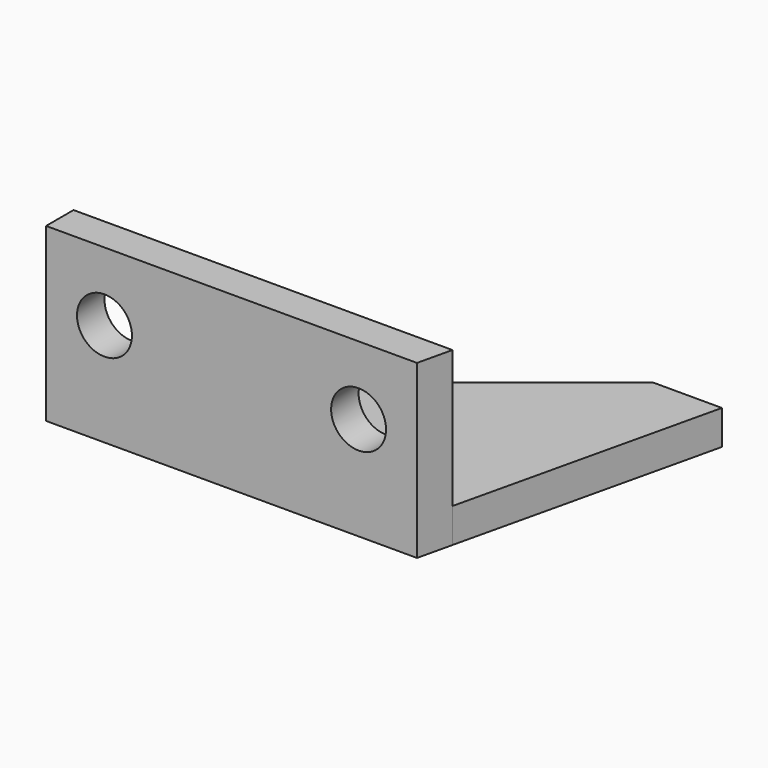
from build123d import *

# Parameters (mm, degrees)
F1_DEPTH = 5
F2_DEPTH = 25
F3_R     = 4
F4_DEPTH = 10


with BuildPart() as f1:
    # F0 (on Top) → F1 (new body)
    with BuildSketch(Plane.XY):
        Polygon((28.1627906977, -16.5), (27, -16.5), (27, -21.5), align=None)
        Polygon((27, -21.5), (27, -16.5), (-20.7209302326, -16.5), (-27, -21.5), align=None)
        Polygon((27, -16.5), (27, 21.5), (-20.7209302326, -16.5), align=None)
        Polygon((37, 21.5), (27, 21.5), (27, -16.5), (28.1627906977, -16.5), align=None)
    extrude(amount=F1_DEPTH)


with BuildPart() as f2:
    # F0 (on Top) → F2 (new body)
    with BuildSketch(Plane.XY):
        Polygon((27, -21.5), (27, -16.5), (-20.7209302326, -16.5), (-27, -21.5), align=None)
        Polygon((28.1627906977, -16.5), (27, -16.5), (27, -21.5), align=None)
        Polygon((-27, -21.5), (-20.7209302326, -16.5), (-27, -16.5), align=None)
    extrude(amount=F2_DEPTH)

    # F3 (on face) → F4 (cut)
    with BuildSketch(Plane.XZ.offset(21.5)):
        with Locations((-18.5, 15)):
            Circle(F3_R)
        with BuildLine():
            ThreePointArc((22.5, 15), (18.5, 19), (14.5, 15))
            ThreePointArc((14.5, 15), (18.5, 11), (22.5, 15))
        make_face()
    extrude(amount=-F4_DEPTH, mode=Mode.SUBTRACT)


solid = Compound([f1.part, f2.part])
